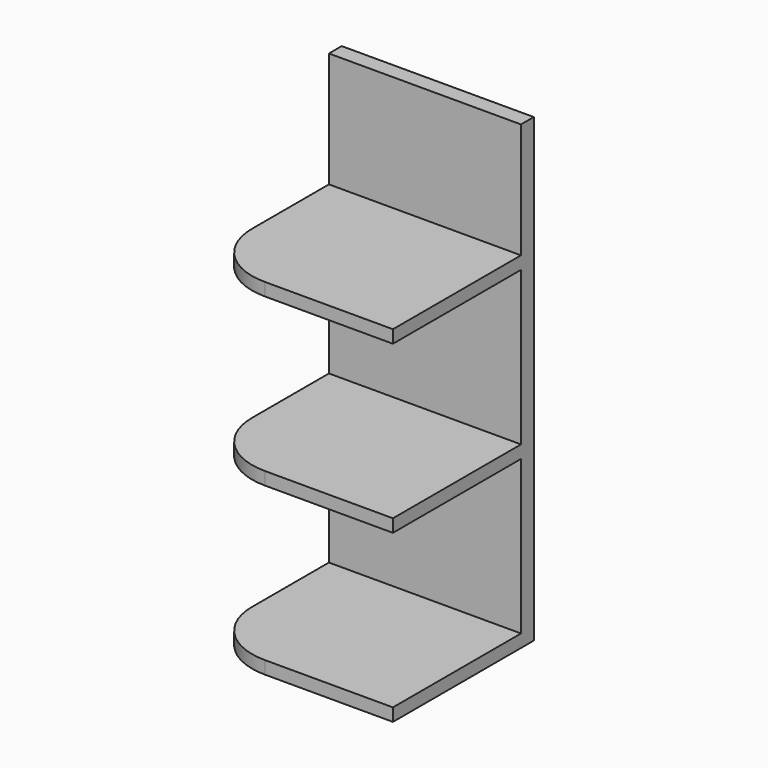
from build123d import *

# Parameters (mm, degrees)
F0_W     = 300
F0_H     = 720
F1_DEPTH = 25
F2_W     = 300
F2_H     = 20
F3_DEPTH = 250
F4_R     = 100
F5_W     = 300
F5_H     = 20
F6_DEPTH = 250
F7_R     = 100


with BuildPart() as f1:
    # F0 (on Front) → F1 (new body)
    with BuildSketch(Plane.XZ):
        with Locations((-150, 0)):
            Rectangle(F0_W, F0_H)
    extrude(amount=F1_DEPTH)

    # F2 (on face) → F3 (join)
    with BuildSketch(Plane.XZ.offset(25)):
        with Locations((-150, -350)):
            Rectangle(F2_W, F2_H)
    extrude(amount=F3_DEPTH)

    # F4
    f4_edges = [f1.edges().sort_by_distance(p)[0] for p in [
        (-300, -275, -350),
    ]]
    fillet(f4_edges, radius=F4_R)

    # F5 (on face) → F6 (join)
    with BuildSketch(Plane.XZ.offset(25)):
        with Locations((-150, -90)):
            Rectangle(F5_W, F5_H)
        with Locations((-150, 170)):
            Rectangle(F5_W, F5_H)
    extrude(amount=F6_DEPTH)

    # F7
    f7_edges = [f1.edges().sort_by_distance(p)[0] for p in [
        (-300, -275, 170),
        (-300, -275, -90),
    ]]
    fillet(f7_edges, radius=F7_R)


solid = f1.part
